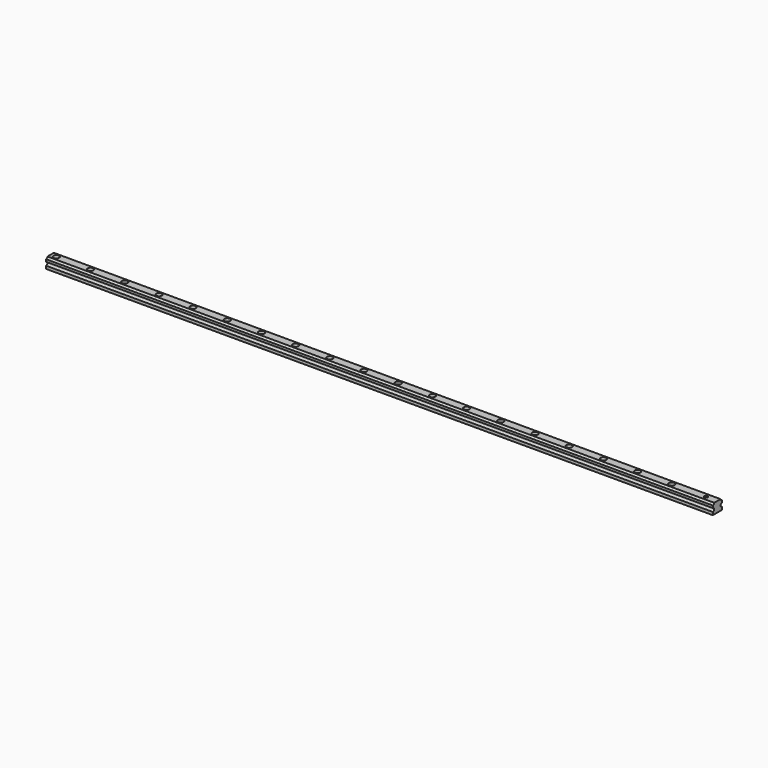
from build123d import *

# Parameters (mm, degrees)
F1_DEPTH = 1170
F2_R     = 3
F3_DEPTH = 18
F4_R     = 5
F5_DEPTH = 7


with BuildPart() as f1:
    # F0 (on Right) → F1 (new body)
    with BuildSketch(Plane.YZ):
        with BuildLine():
            Line((-26.041336, 5), (-26.041336, 0))
            Line((-26.041336, 0), (-6.041336, 0))
            Line((-6.041336, 0), (-6.041336, 5))
            ThreePointArc((-6.041336, 5), (-9.041336, 8), (-6.041336, 11))
            Line((-6.041336, 11), (-6.041336, 15))
            ThreePointArc((-6.041336, 15), (-8.162657, 15.87868), (-9.041336, 18))
            Line((-9.041336, 18), (-23.041336, 18))
            ThreePointArc((-23.041336, 18), (-23.920016, 15.87868), (-26.041336, 15))
            Line((-26.041336, 15), (-26.041336, 11))
            ThreePointArc((-26.041336, 11), (-23.041336, 8), (-26.041336, 5))
        make_face()
    extrude(amount=F1_DEPTH)

    # F2 (on face) → F3 (cut)
    with BuildSketch(Plane.XY.offset(18)):
        with Locations((10, -16.041336)):
            Circle(F2_R)
        with Locations((70, -16.041336)):
            Circle(F2_R)
        with Locations((130, -16.041336)):
            Circle(F2_R)
        with Locations((190, -16.041336)):
            Circle(F2_R)
        with Locations((250, -16.041336)):
            Circle(F2_R)
        with Locations((310, -16.041336)):
            Circle(F2_R)
        with Locations((370, -16.041336)):
            Circle(F2_R)
        with Locations((430, -16.041336)):
            Circle(F2_R)
        with Locations((490, -16.041336)):
            Circle(F2_R)
        with Locations((550, -16.041336)):
            Circle(F2_R)
        with Locations((610, -16.041336)):
            Circle(F2_R)
        with Locations((670, -16.041336)):
            Circle(F2_R)
        with Locations((730, -16.041336)):
            Circle(F2_R)
        with Locations((790, -16.041336)):
            Circle(F2_R)
        with Locations((850, -16.041336)):
            Circle(F2_R)
        with Locations((910, -16.041336)):
            Circle(F2_R)
        with Locations((970, -16.041336)):
            Circle(F2_R)
        with Locations((1030, -16.041336)):
            Circle(F2_R)
        with Locations((1090, -16.041336)):
            Circle(F2_R)
        with Locations((1150, -16.041336)):
            Circle(F2_R)
        with Locations((1210, -16.041336)):
            Circle(F2_R)
        with Locations((1270, -16.041336)):
            Circle(F2_R)
        with Locations((1330, -16.041336)):
            Circle(F2_R)
        with Locations((1390, -16.041336)):
            Circle(F2_R)
        with Locations((1450, -16.041336)):
            Circle(F2_R)
        with Locations((1510, -16.041336)):
            Circle(F2_R)
        with Locations((1570, -16.041336)):
            Circle(F2_R)
        with Locations((1630, -16.041336)):
            Circle(F2_R)
        with Locations((1690, -16.041336)):
            Circle(F2_R)
        with Locations((1750, -16.041336)):
            Circle(F2_R)
        with Locations((1810, -16.041336)):
            Circle(F2_R)
        with Locations((1870, -16.041336)):
            Circle(F2_R)
        with Locations((1930, -16.041336)):
            Circle(F2_R)
        with Locations((1990, -16.041336)):
            Circle(F2_R)
    extrude(amount=-F3_DEPTH, mode=Mode.SUBTRACT)

    # F4 (on face) → F5 (cut)
    with BuildSketch(Plane.XY.offset(18)):
        with Locations((10, -16.041336)):
            Circle(F4_R)
        with Locations((70, -16.041336)):
            Circle(F4_R)
        with Locations((130, -16.041336)):
            Circle(F4_R)
        with Locations((190, -16.041336)):
            Circle(F4_R)
        with Locations((250, -16.041336)):
            Circle(F4_R)
        with Locations((310, -16.041336)):
            Circle(F4_R)
        with Locations((370, -16.041336)):
            Circle(F4_R)
        with Locations((430, -16.041336)):
            Circle(F4_R)
        with Locations((490, -16.041336)):
            Circle(F4_R)
        with Locations((550, -16.041336)):
            Circle(F4_R)
        with Locations((610, -16.041336)):
            Circle(F4_R)
        with Locations((670, -16.041336)):
            Circle(F4_R)
        with Locations((730, -16.041336)):
            Circle(F4_R)
        with Locations((790, -16.041336)):
            Circle(F4_R)
        with Locations((850, -16.041336)):
            Circle(F4_R)
        with Locations((910, -16.041336)):
            Circle(F4_R)
        with Locations((970, -16.041336)):
            Circle(F4_R)
        with Locations((1030, -16.041336)):
            Circle(F4_R)
        with Locations((1090, -16.041336)):
            Circle(F4_R)
    extrude(amount=-F5_DEPTH, mode=Mode.SUBTRACT)


solid = f1.part
